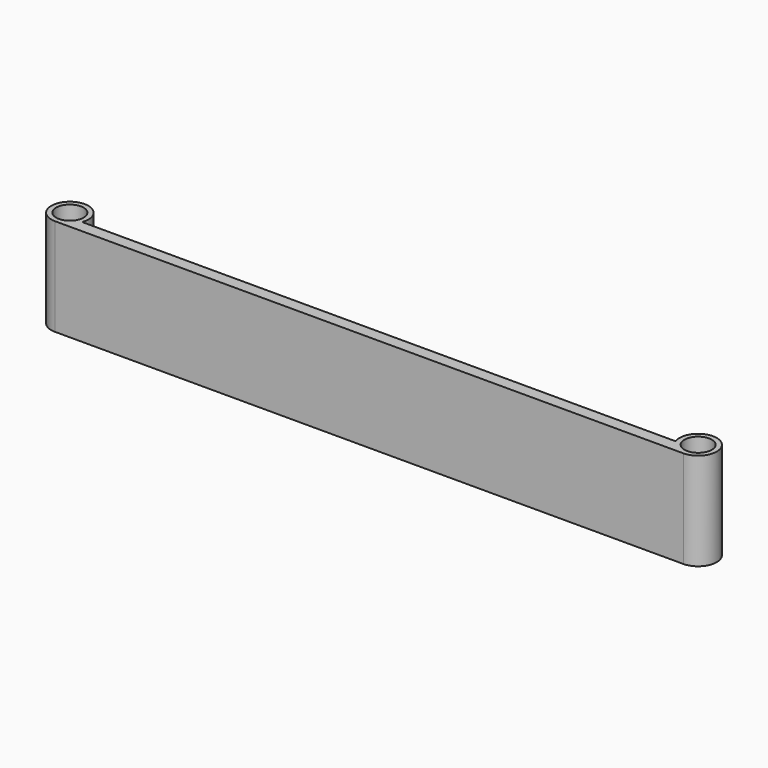
from build123d import *

# Parameters (mm, degrees)
F1_DEPTH = 50.8


with BuildPart() as f1:
    # F0 (on Top) → F1 (new body)
    with BuildSketch(Plane.XY):
        with BuildLine():
            Line((-156.111803, 0), (0, 0))
            Line((0, 0), (0, 6.35))
            Line((0, 6.35), (-154.738184, 6.35))
            ThreePointArc((-154.738184, 6.35), (-169.374899, 17.622837), (-163.83, 0))
            Line((-163.83, 0), (-156.111803, 0))
        make_face()
        with BuildLine():
            ThreePointArc((-157.904967, 5.692867), (-170.662281, 11.770159), (-156.68625, 9.68375))
            ThreePointArc((-156.68625, 9.68375), (-156.895716, 7.966523), (-157.51183, 6.35))
            ThreePointArc((-157.51183, 6.35), (-157.699587, 6.016162), (-157.904967, 5.692867))
        make_face(mode=Mode.SUBTRACT)
        with BuildLine():
            Line((0, 6.35), (0, 0))
            Line((0, 0), (156.111803, 0))
            Line((156.111803, 0), (163.83, 0))
            ThreePointArc((163.83, 0), (169.374899, 17.622837), (154.738184, 6.35))
            Line((154.738184, 6.35), (0, 6.35))
        make_face()
        with BuildLine():
            ThreePointArc((170.97375, 9.68375), (165.916409, 2.851469), (157.904967, 5.692867))
            ThreePointArc((157.904967, 5.692867), (157.699587, 6.016162), (157.51183, 6.35))
            ThreePointArc((157.51183, 6.35), (162.112773, 16.618034), (170.97375, 9.68375))
        make_face(mode=Mode.SUBTRACT)
    extrude(amount=-F1_DEPTH)


solid = f1.part
